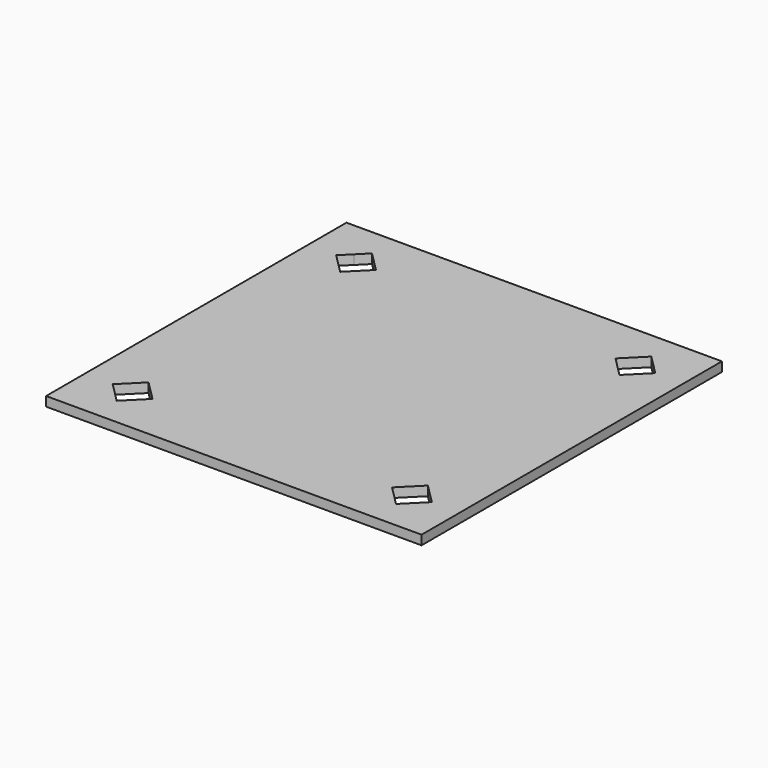
from build123d import *

# Parameters (mm, degrees)
F1_DEPTH = 10


with BuildPart() as f1:
    # F0 (on Top) → F1 (new body)
    with BuildSketch(Plane.XY):
        Polygon((200, 0), (200, 200), (-200, 200), (-159.393398, 159.393398), (-148.786797, 170), (-127.573593, 148.786797), (-138.180195, 138.180195), (0, 0), align=None)
        Polygon((148.786797, 170), (159.393398, 159.393398), (170, 148.786797), (148.786797, 127.573593), (127.573593, 148.786797), align=None, mode=Mode.SUBTRACT)
        Polygon((-159.393398, 159.393398), (-200, 200), (-200, 0), (0, 0), (-138.180195, 138.180195), (-148.786797, 127.573593), (-170, 148.786797), align=None)
        Polygon((0, 0), (-200, 0), (-200, -200), (200, -200), (159.393398, -159.393398), (148.786797, -170), (127.573593, -148.786797), (138.180195, -138.180195), align=None)
        Polygon((-170, -148.786797), (-148.786797, -127.573593), (-127.573593, -148.786797), (-148.786797, -170), align=None, mode=Mode.SUBTRACT)
        Polygon((200, -200), (200, 0), (0, 0), (138.180195, -138.180195), (148.786797, -127.573593), (170, -148.786797), (159.393398, -159.393398), align=None)
    extrude(amount=F1_DEPTH)


solid = f1.part
